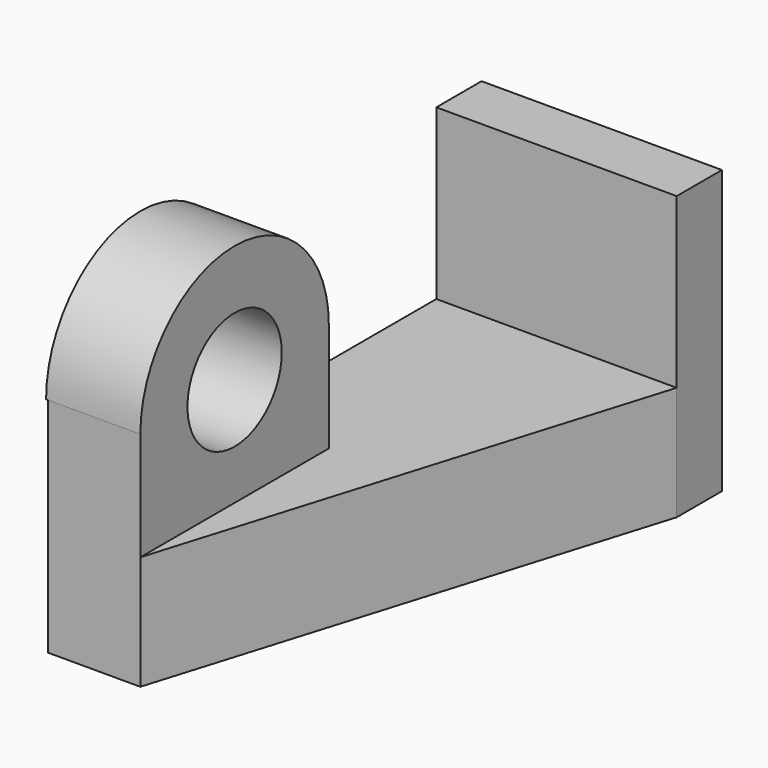
from build123d import *

# Parameters (mm, degrees)
F0_W      = 1524
F0_H      = 1524
F1_DEPTH  = 304.8
F3_DEPTH  = 2616.2
F4_W      = 508
F4_H      = 1270
F5_DEPTH  = 584.2
F6_DEPTH  = 218.44
F8_DEPTH  = 508
F9_R      = 317.5
F10_DEPTH = 508
F11_DEPTH = 228.6
F13_DEPTH = 1165.86


with BuildPart() as f1:
    # F0 (on Front) → F1 (new body)
    with BuildSketch(Plane.XZ):
        with Locations((-762, 762)):
            Rectangle(F0_W, F0_H)
    extrude(amount=F1_DEPTH)

    # F2 (on face) → F3 (join)
    with BuildSketch(Plane.XZ.offset(304.8)):
        Polygon((-1524, 614.5238280296), (-1524, 0), (-66.4134323597, 0), (0, 0), (0, 614.5238280296), (-66.4134323597, 614.5238280296), align=None)
    extrude(amount=F3_DEPTH)

    # F4 (on face) → F5 (join)
    with BuildSketch(Plane.XY.offset(614.5238280296)):
        with Locations((-1270, -2286)):
            Rectangle(F4_W, F4_H)
    extrude(amount=F5_DEPTH)

    # F6 (add): a face of the model
    f6_faces = [f1.faces().sort_by_distance(p)[0] for p in [
        (-1016, -2286, 906.6238280296),
    ]]
    extrude(f6_faces, amount=F6_DEPTH)

    # F7 (on face) → F8 (join)
    with BuildSketch(Plane.YZ.offset(-797.56)):
        with BuildLine():
            Line((-2921, 1198.7238280296), (-1651, 1198.7238280296))
            ThreePointArc((-1651, 1198.7238280296), (-2286, 1833.7238280296), (-2921, 1198.7238280296))
        make_face()
    extrude(amount=-F8_DEPTH)

    # F9 (on face) → F10 (cut)
    with BuildSketch(Plane.YZ.offset(-797.56)):
        with Locations((-2286, 1198.7238280296)):
            Circle(F9_R)
    extrude(amount=-F10_DEPTH, mode=Mode.SUBTRACT)

    # F11 (cut): a face of the model
    f11_faces = [f1.faces().sort_by_distance(p)[0] for p in [
        (-1524, -1549.2830540632, 540.3397185849),
    ]]
    extrude(f11_faces, amount=-F11_DEPTH, mode=Mode.SUBTRACT)

    # F12 (on face) → F13 (cut)
    with BuildSketch(Plane.XY.offset(614.5238280296)):
        Polygon((0, -304.8), (-797.56, -2921), (0, -2921), align=None)
    extrude(amount=-F13_DEPTH, mode=Mode.SUBTRACT)


solid = f1.part
